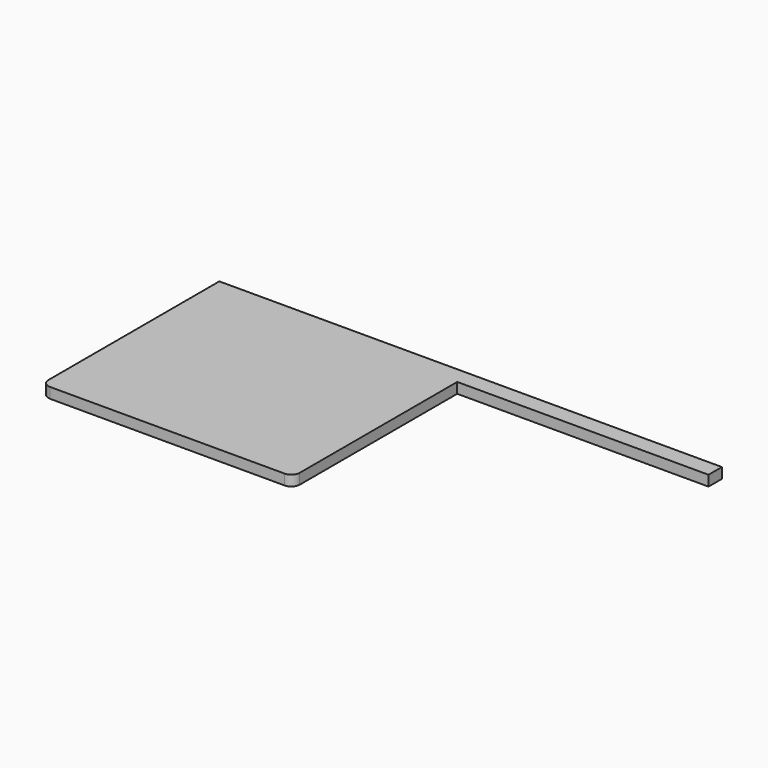
from build123d import *

# Parameters (mm, degrees)
F1_DEPTH = 31.75


with BuildPart() as f1:
    # F0 (on Top) → F1 (new body)
    with BuildSketch(Plane.XY):
        with BuildLine():
            Line((-736.6, 0), (-25.4, 0))
            ThreePointArc((-25.4, 0), (-7.439488, 7.439488), (0, 25.4))
            Line((0, 25.4), (0, 622.3))
            Line((0, 622.3), (762, 622.3))
            Line((762, 622.3), (762, 673.1))
            Line((762, 673.1), (-762, 673.1))
            Line((-762, 673.1), (-762, 25.4))
            ThreePointArc((-762, 25.4), (-754.560512, 7.439488), (-736.6, 0))
        make_face()
    extrude(amount=F1_DEPTH)


solid = f1.part
